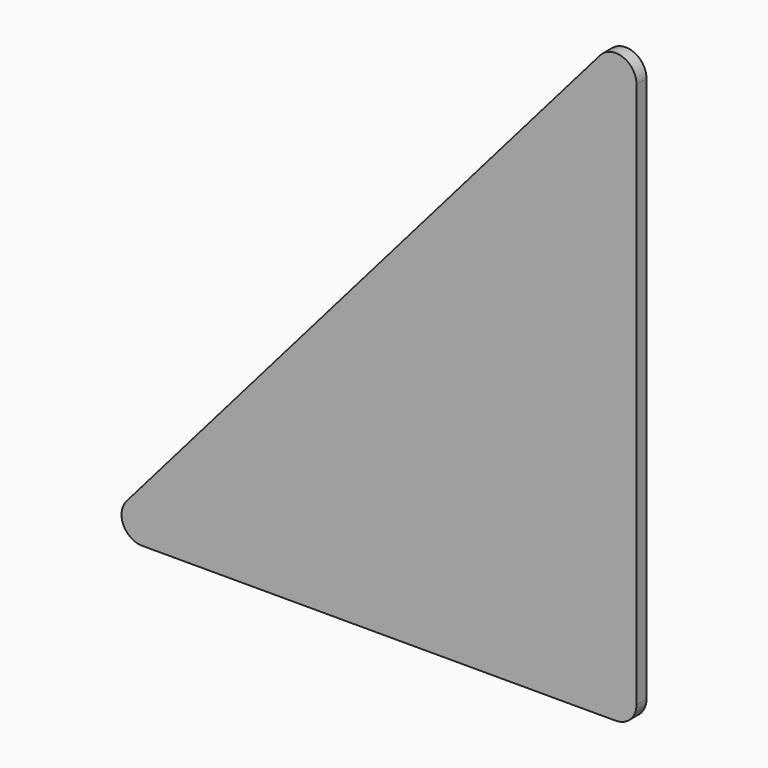
from build123d import *

# Parameters (mm, degrees)
F1_DEPTH = 3
F2_R     = 5
F3_R     = 5
F4_R     = 5


with BuildPart() as f1:
    # F0 (on Front) → F1 (new body)
    with BuildSketch(Plane.XZ):
        Polygon((21.310295, -72.443289), (21.310295, 77.556711), (-108.689705, -72.443289), align=None)
    extrude(amount=F1_DEPTH)

    # F2
    f2_edges = [f1.edges().sort_by_distance(p)[0] for p in [
        (21.310295, -1.5, 77.556711),
    ]]
    fillet(f2_edges, radius=F2_R)

    # F3
    f3_edges = [f1.edges().sort_by_distance(p)[0] for p in [
        (21.310295, -1.5, -72.443289),
    ]]
    fillet(f3_edges, radius=F3_R)

    # F4
    f4_edges = [f1.edges().sort_by_distance(p)[0] for p in [
        (-108.689705, -1.5, -72.443289),
    ]]
    fillet(f4_edges, radius=F4_R)


solid = f1.part
